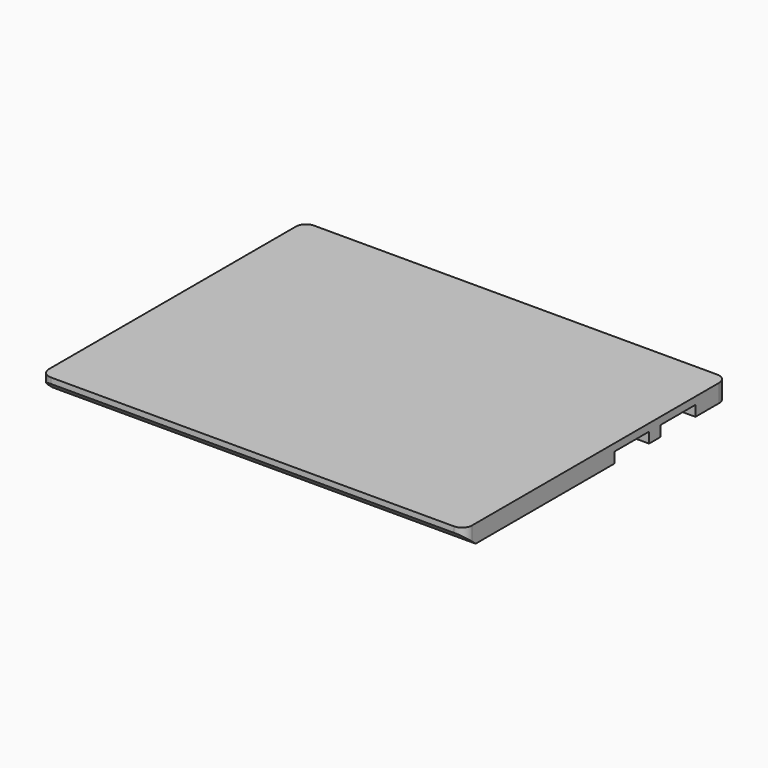
from build123d import *

# Parameters (mm, degrees)
SKETCH_W            = 296
SKETCH_H            = 230
PAD_DEPTH           = 12.53
FILLET_R            = 7
POCKET_DEPTH        = 296
SKETCH003_W         = 27.1
SKETCH003_H         = 7.18
SKETCH004_W         = 23.7
SKETCH004_H         = 3.78
SKETCH002_W         = 224.66
SKETCH002_H         = 7.18
SKETCH005_W         = 221.26
SKETCH005_H         = 3.78
SKETCH006_W         = 27.1
SKETCH006_H         = 7.18
SKETCH007_W         = 23.7
SKETCH007_H         = 3.78
SKETCH010_W         = 0.89
SKETCH010_H         = 12.46
POCKET001_DEPTH     = 3
LINEARPATTERN_COUNT = 70
LINEARPATTERN_PITCH = 2.405797
SKETCH012_W         = 31.82
SKETCH012_H         = 30.33
POCKET002_DEPTH     = 7.4
SKETCH021_W         = 12.83
SKETCH021_H         = 6.25
POCKET007_DEPTH     = 6.8
SKETCH022_W         = 11.49
SKETCH022_H         = 4.91
PAD007_DEPTH        = 7.31


with BuildPart() as part:
    # Sketch → Pad (new body)
    with BuildSketch(Plane.XY):
        with Locations((148, 115)):
            Rectangle(SKETCH_W, SKETCH_H)
    extrude(amount=PAD_DEPTH)

    # Fillet
    fillet_edges = [part.edges().sort_by_distance(p)[0] for p in [
        (296, 230, 6.265),
        (296, 0, 6.265),
        (0, 0, 6.265),
        (0, 230, 6.265),
    ]]
    fillet(fillet_edges, radius=FILLET_R)

    # Sketch001 (on Face6 of Fillet) → Pocket (cut)
    with BuildSketch(Plane(origin=(0, 0, 0), x_dir=(0, -1, 0), z_dir=(-1, 0, 0))):
        Polygon((0, 0), (-10.11, 0), (0, 8.53), align=None)
    extrude(amount=-POCKET_DEPTH, mode=Mode.SUBTRACT)

    # Sketch003 (on Face8 of Pocket) → AdditiveLoft section 0
    with BuildSketch(Plane(origin=(0, 0, 0), x_dir=(1, 0, 0), z_dir=(0, 0, -1))):
        with Locations((33.36, -22.42)):
            Rectangle(SKETCH003_W, SKETCH003_H)
    # Sketch004 (on Face8 of Pocket) → AdditiveLoft section 1
    with BuildSketch(Plane(origin=(0, 0, -2.21), x_dir=(1, 0, 0), z_dir=(0, 0, -1))):
        with Locations((33.36, -22.42)):
            Rectangle(SKETCH004_W, SKETCH004_H)
    loft()

    # Sketch002 (on Face8 of Pocket) → AdditiveLoft001 section 0
    with BuildSketch(Plane(origin=(0, 0, 0), x_dir=(1, 0, 0), z_dir=(0, 0, -1))):
        with Locations((148, -198.67)):
            Rectangle(SKETCH002_W, SKETCH002_H)
    # Sketch005 (on Face8 of AdditiveLoft) → AdditiveLoft001 section 1
    with BuildSketch(Plane(origin=(0, 0, -2.95), x_dir=(1, 0, 0), z_dir=(0, 0, -1))):
        with Locations((148, -198.67)):
            Rectangle(SKETCH005_W, SKETCH005_H)
    loft()

    # Sketch006 (on Face8 of AdditiveLoft001) → AdditiveLoft002 section 0
    with BuildSketch(Plane(origin=(0, 0, 0), x_dir=(1, 0, 0), z_dir=(0, 0, -1))):
        with Locations((262.64, -22.42)):
            Rectangle(SKETCH006_W, SKETCH006_H)
    # Sketch007 (on Face8 of AdditiveLoft001) → AdditiveLoft002 section 1
    with BuildSketch(Plane(origin=(0, 0, -2.95), x_dir=(1, 0, 0), z_dir=(0, 0, -1))):
        with Locations((262.64, -22.42)):
            Rectangle(SKETCH007_W, SKETCH007_H)
    loft()

    # Sketch010 (on Face8 of AdditiveLoft002) → Pocket001 (cut)
    with BuildSketch(Plane(origin=(0, 0, 0), x_dir=(1, 0, 0), z_dir=(0, 0, -1))):
        with Locations((65.005, -159.85)):
            Rectangle(SKETCH010_W, SKETCH010_H)
        with Locations((65.005, -174.31)):
            Rectangle(SKETCH010_W, SKETCH010_H)
    pocket001 = extrude(amount=-POCKET001_DEPTH, mode=Mode.SUBTRACT)

    # LinearPattern: Pocket001 ×70
    with Locations(*[(i * LINEARPATTERN_PITCH, 0, 0) for i in range(1, LINEARPATTERN_COUNT)]):
        add(pocket001, mode=Mode.SUBTRACT)

    # Sketch012 (on Face8 of LinearPattern) → Pocket002 (cut)
    with BuildSketch(Plane(origin=(0, 0, 0), x_dir=(1, 0, 0), z_dir=(0, 0, -1))):
        with Locations((15.91, -187.115)):
            Rectangle(SKETCH012_W, SKETCH012_H)
        with Locations((15.91, -146.565)):
            Rectangle(SKETCH012_W, SKETCH012_H)
        with Locations((280.09, -187.115)):
            Rectangle(SKETCH012_W, SKETCH012_H)
        with Locations((280.09, -146.565)):
            Rectangle(SKETCH012_W, SKETCH012_H)
    extrude(amount=-POCKET002_DEPTH, mode=Mode.SUBTRACT)

    # Sketch021 (on Face8 of Pocket002) → Pocket007 (cut)
    with BuildSketch(Plane(origin=(0, 0, 0), x_dir=(1, 0, 0), z_dir=(0, 0, -1))):
        with Locations((23.765, -166.84)):
            Rectangle(SKETCH021_W, SKETCH021_H)
        with Locations((272.235, -166.84)):
            Rectangle(SKETCH021_W, SKETCH021_H)
    extrude(amount=-POCKET007_DEPTH, mode=Mode.SUBTRACT)

    # Sketch022 (on Face610 of Pocket007) → Pad007 (join)
    with BuildSketch(Plane(origin=(0, 0, 6.8), x_dir=(1, 0, 0), z_dir=(0, 0, -1))):
        with Locations((23.765, -166.84)):
            Rectangle(SKETCH022_W, SKETCH022_H)
        with Locations((272.235, -166.84)):
            Rectangle(SKETCH022_W, SKETCH022_H)
    extrude(amount=PAD007_DEPTH)


solid = part.part
